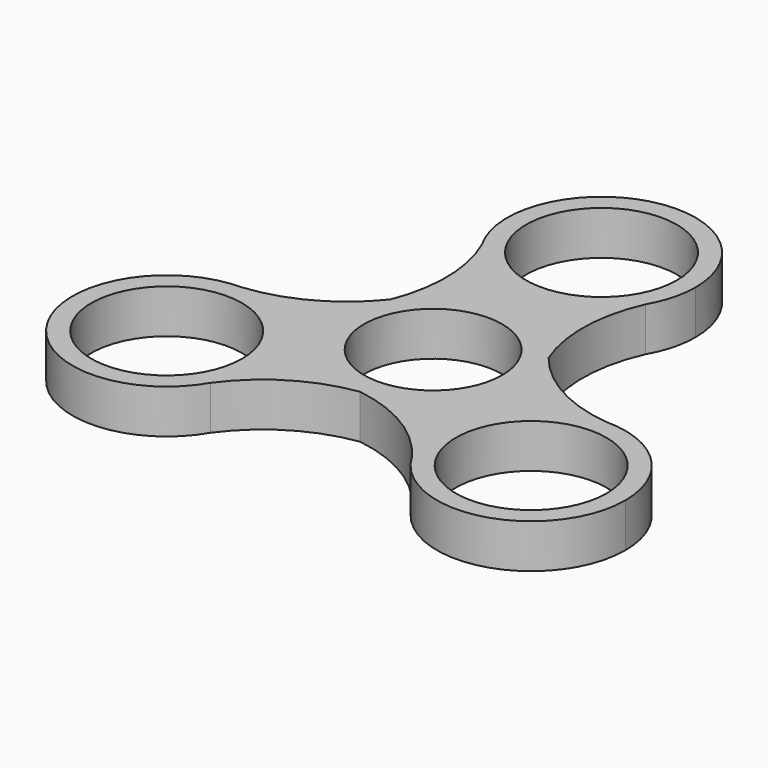
from build123d import *

# Parameters (mm, degrees)
F0_R     = 12
F0_R_2   = 14.5
F0_R_3   = 11
F1_DEPTH = 7


with BuildPart() as f1:
    # F0 (on Top) → F1 (new body)
    with BuildSketch(Plane.XY):
        with BuildLine():
            ThreePointArc((13.007052, 26.028949), (14.493201, 29.63385), (15, 33.5))
            ThreePointArc((15, 33.5), (-3.86615, 47.993201), (-13.007052, 26.028949))
            ThreePointArc((-13.007052, 26.028949), (0, 18.5), (13.007052, 26.028949))
        make_face()
        with Locations((0, 33.5)):
            Circle(F0_R, mode=Mode.SUBTRACT)
        with BuildLine():
            ThreePointArc((13.007052, 26.028949), (0, 18.5), (-13.007052, 26.028949))
            ThreePointArc((-13.007052, 26.028949), (-10.880101, 16.688967), (-12.577073, 7.261376))
            ThreePointArc((-12.577073, 7.261376), (-19.89312, 1.07796), (-29.045257, -1.750037))
            ThreePointArc((-29.045257, -1.750037), (-18.417067, -6.131594), (-14.011851, -16.75))
            ThreePointArc((-14.011851, -16.75), (-14.527296, -20.648417), (-16.038205, -24.278912))
            ThreePointArc((-16.038205, -24.278912), (-9.013019, -17.766927), (0, -14.522753))
            ThreePointArc((0, -14.522753), (9.013019, -17.766927), (16.038205, -24.278912))
            ThreePointArc((16.038205, -24.278912), (16.02147, -9.25), (29.045257, -1.750037))
            ThreePointArc((29.045257, -1.750037), (19.89312, 1.07796), (12.577073, 7.261376))
            ThreePointArc((12.577073, 7.261376), (10.880101, 16.688967), (13.007052, 26.028949))
        make_face()
        Circle(F0_R_2, mode=Mode.SUBTRACT)
        with BuildLine():
            ThreePointArc((-14.011851, -16.75), (-18.417067, -6.131594), (-29.045257, -1.750037))
            ThreePointArc((-29.045257, -1.750037), (-42.002232, -24.25), (-16.038205, -24.278912))
            ThreePointArc((-16.038205, -24.278912), (-14.527296, -20.648417), (-14.011851, -16.75))
        make_face()
        with Locations((-29.011851, -16.75)):
            Circle(F0_R, mode=Mode.SUBTRACT)
        with BuildLine():
            ThreePointArc((44.011851, -16.75), (39.630257, -6.155216), (29.045257, -1.750037))
            ThreePointArc((29.045257, -1.750037), (16.02147, -9.25), (16.038205, -24.278912))
            ThreePointArc((16.038205, -24.278912), (32.910268, -31.234555), (44.011851, -16.75))
        make_face()
        with Locations((29.011851, -16.75)):
            Circle(F0_R, mode=Mode.SUBTRACT)
        Circle(F0_R_2)
        Circle(F0_R_3, mode=Mode.SUBTRACT)
    extrude(amount=F1_DEPTH)


solid = f1.part
